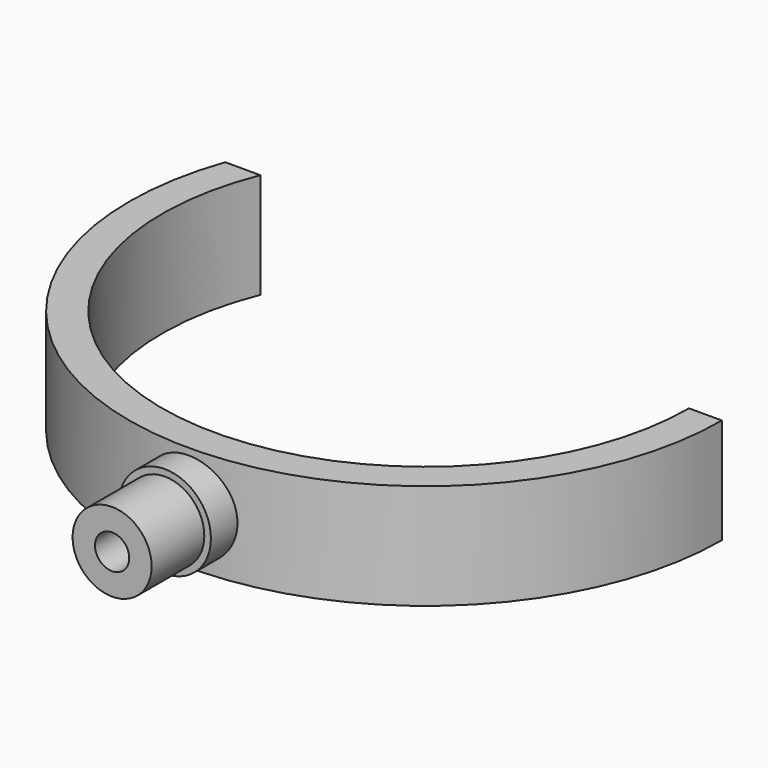
from build123d import *

# Parameters (mm, degrees)
PAD_DEPTH     = 8
SKETCH002_R   = 7
PAD001_DEPTH  = 4.5
POCKET_DEPTH  = 5
SKETCH005_R   = 6
SKETCH005_R_2 = 2.6
PAD002_DEPTH  = 10


with BuildPart() as part:
    # Sketch001 → Pad (new body, symmetric)
    with BuildSketch(Plane.XY):
        with BuildLine():
            ThreePointArc((-37.080992, 60), (-7.64069, 5.736533), (40, 45))
            Line((40, 45), (45, 45))
            ThreePointArc((-42.426407, 60), (-7.609589, 0.648065), (45, 45))
            Line((-42.426407, 60), (-37.080992, 60))
        make_face()
    extrude(amount=PAD_DEPTH, both=True)

    # Sketch002 → Pad001 (join, symmetric)
    with BuildSketch(Plane.XZ):
        Circle(SKETCH002_R)
    extrude(amount=PAD001_DEPTH, both=True)

    # Sketch004 (on Face8 of Pad001) → Pocket (cut)
    with BuildSketch(Plane.XZ.offset(4.5)):
        with BuildLine():
            Line((-1.532971, 2.1), (1.532971, 2.1))
            ThreePointArc((1.532971, -2.1), (2.6, 0), (1.532971, 2.1))
            Line((-1.532971, -2.1), (1.532971, -2.1))
            ThreePointArc((-1.532971, 2.1), (-2.6, 0), (-1.532971, -2.1))
        make_face()
    extrude(amount=-POCKET_DEPTH, mode=Mode.SUBTRACT)

    # Sketch005 (on Face8 of Pocket) → Pad002 (join)
    with BuildSketch(Plane.XZ.offset(4.5)):
        Circle(SKETCH005_R)
        Circle(SKETCH005_R_2, mode=Mode.SUBTRACT)
    extrude(amount=PAD002_DEPTH)


solid = part.part
